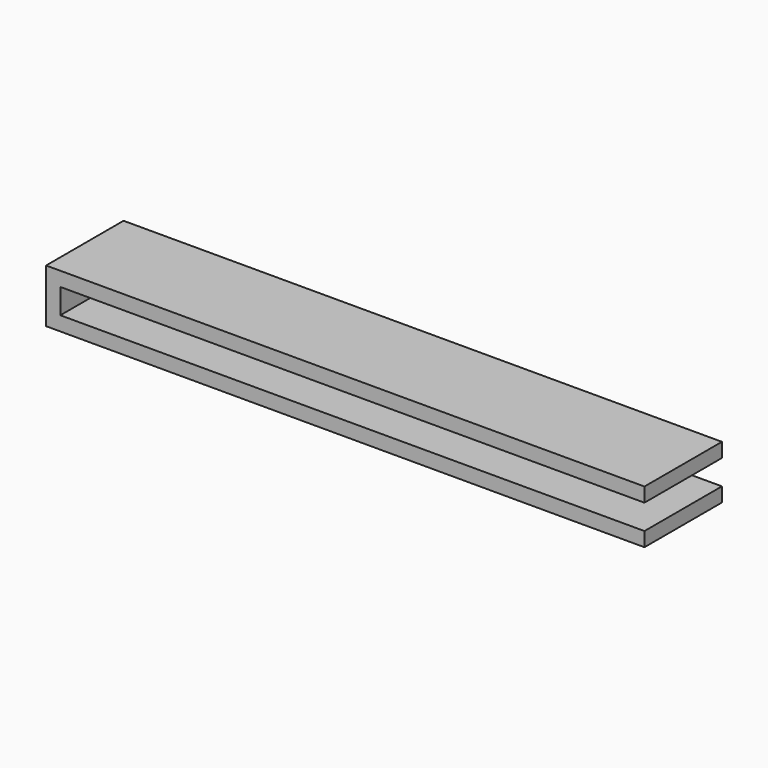
from build123d import *

# Parameters (mm, degrees)
F0_W     = 106.614929
F0_H     = 17.253236
F1_DEPTH = 9.525
F2_T     = -2.54


with BuildPart() as f1:
    # F0 (on Top) → F1 (new body)
    with BuildSketch(Plane.XY):
        with Locations((17.008172, 45.145917)):
            Rectangle(F0_W, F0_H)
    extrude(amount=F1_DEPTH)

    # F2
    f2_openings = [f1.faces().sort_by_distance(p)[0] for p in [
        (17.008172, 36.519299, 4.7625),
        (70.315637, 45.145917, 4.7625),
        (17.008172, 53.772535, 4.7625),
    ]]
    offset(amount=F2_T, openings=f2_openings)


solid = f1.part
